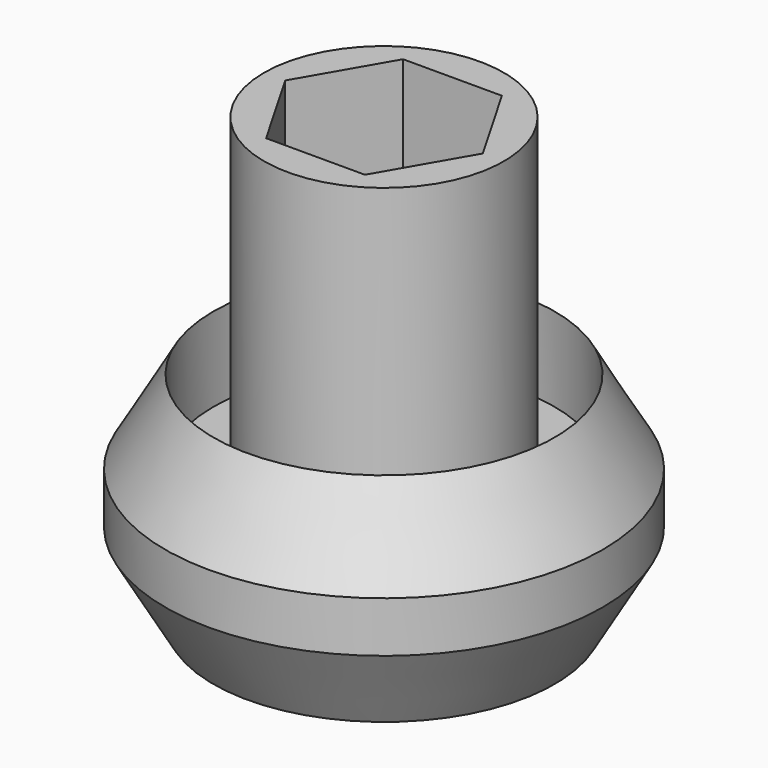
from build123d import *

# Parameters (mm, degrees)
F2_R     = 4.7625
F3_DEPTH = 8
F4_R     = 4.7625
F5_DEPTH = 6


with BuildPart() as f1:
    # F0 (on Front) → F1 (revolve)
    with BuildSketch(Plane.XZ):
        Polygon((-13.4615, 0), (-4.7625, 0), (-4.7625, 35), (-9.4615, 35), (-9.4615, 10.5), (-13.4615, 10.5), (-13.4615, 17.1237489689), (-17.25, 10.5618744845), (-17.25, 6.5618744845), align=None)
    revolve(axis=Axis((0, 0, 27.3268250281), (0, 0, 1)))

    # F2 (on face) → F3 (cut)
    with BuildSketch(Plane.XY.offset(35)):
        Polygon((3.897114317, 6.75), (-3.897114317, 6.75), (-7.7942286341, 0), (-3.897114317, -6.75), (3.897114317, -6.75), (7.7942286341, 0), align=None)
        Circle(F2_R, mode=Mode.SUBTRACT)
    extrude(amount=-F3_DEPTH, mode=Mode.SUBTRACT)

    # F4 (on face) → F5 (cut)
    with BuildSketch(Plane(origin=(0, 0, 0), x_dir=(1, 0, 0), z_dir=(0, 0, -1))):
        Polygon((3.897114317, 6.75), (-3.897114317, 6.75), (-7.7942286341, 0), (-3.897114317, -6.75), (3.897114317, -6.75), (7.7942286341, 0), align=None)
        Circle(F4_R, mode=Mode.SUBTRACT)
    extrude(amount=-F5_DEPTH, mode=Mode.SUBTRACT)


solid = f1.part
